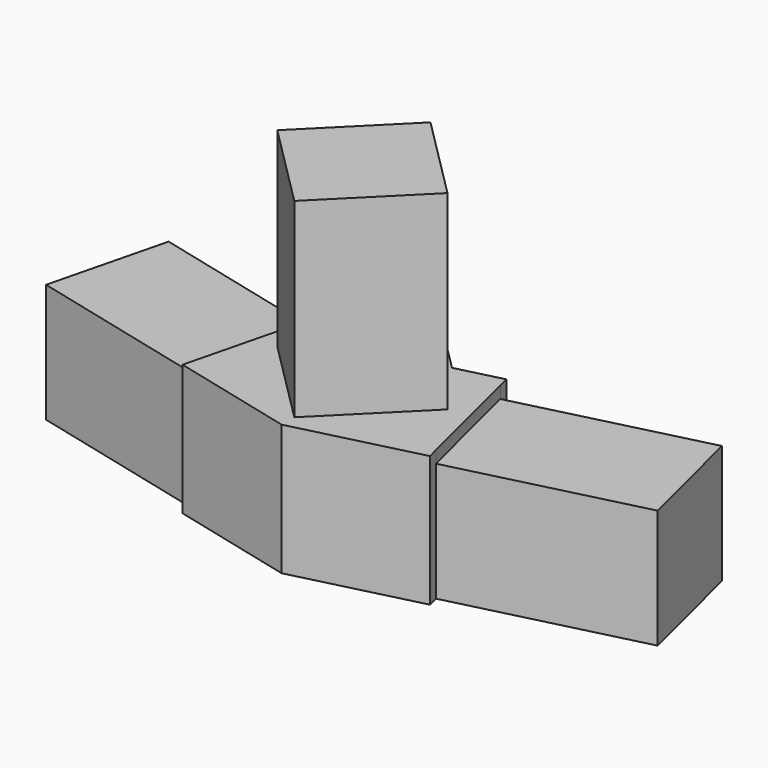
from build123d import *

# Parameters (mm, degrees)
F1_DEPTH = 15.85
F3_DEPTH = 1.6
F5_DEPTH = 25.4


with BuildPart() as f1:
    # F0 (on Top) → F1 (new body)
    with BuildSketch(Plane.XY):
        Polygon((-16.495027, 4.112672), (0, 0), (16.495027, 4.112672), (16.132145, 5.568116), (40.777656, 11.712932), (36.89481, 27.286178), (12.249298, 21.141362), (11.886415, 22.596806), (5.849207, 21.091561), (0, 26.940768), (-5.849207, 21.091561), (-11.886415, 22.596806), (-12.249298, 21.141362), (-36.89481, 27.286178), (-40.777656, 11.712932), (-16.132145, 5.568116), align=None)
    extrude(amount=F1_DEPTH)

    # F2 (on face) → F3 (join)
    with BuildSketch(Plane.XY.offset(15.85)):
        Polygon((-16.132145, 5.568116), (-16.495027, 4.112672), (0, 0), (16.495027, 4.112672), (16.132145, 5.568116), (12.249298, 21.141362), (11.886415, 22.596806), (5.849207, 21.091561), (0, 26.940768), (-5.849207, 21.091561), (-11.886415, 22.596806), (-12.249298, 21.141362), align=None)
    extrude(amount=F3_DEPTH)

    # F4 (on face) → F5 (join)
    with BuildSketch(Plane.XY.offset(17.45)):
        Polygon((-11.349064, 13.470384), (0, 2.12132), (11.349064, 13.470384), (0, 24.819448), align=None)
    extrude(amount=F5_DEPTH)


solid = f1.part
